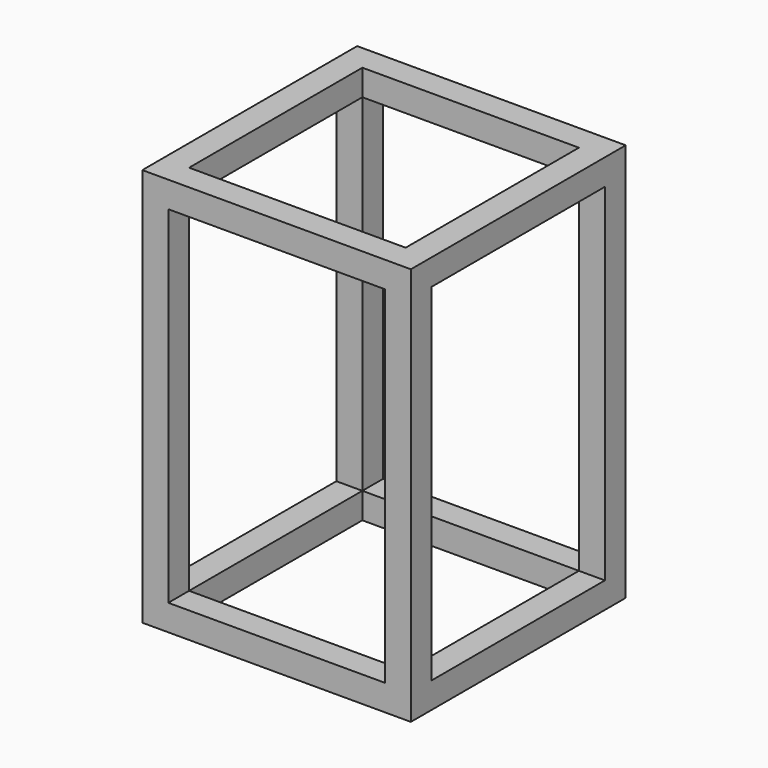
from build123d import *

# Parameters (mm, degrees)
F0_W     = 393.7
F0_H     = 393.7
F0_W_2   = 317.5
F0_H_2   = 317.5
F1_DEPTH = 38.1
F2_W     = 38.1
F2_H     = 38.1
F3_DEPTH = 508
F4_W     = 317.5
F4_H     = 317.5
F5_DEPTH = 38.1


with BuildPart() as f1:
    # F0 (on Top) → F1 (new body)
    with BuildSketch(Plane.XY):
        Rectangle(F0_W, F0_H)
        Rectangle(F0_W_2, F0_H_2, mode=Mode.SUBTRACT)
    extrude(amount=F1_DEPTH)

    # F2 (on face) → F3 (join)
    with BuildSketch(Plane(origin=(0, 0, 0), x_dir=(1, 0, 0), z_dir=(0, 0, -1))):
        with Locations((-177.8, 177.8)):
            Rectangle(F2_W, F2_H)
        with Locations((-177.8, -177.8)):
            Rectangle(F2_W, F2_H)
        with Locations((177.8, 177.8)):
            Rectangle(F2_W, F2_H)
        with Locations((177.8, -177.8)):
            Rectangle(F2_W, F2_H)
    extrude(amount=F3_DEPTH)

    # F4 (on face) → F5 (join)
    with BuildSketch(Plane(origin=(0, 0, -508), x_dir=(1, 0, 0), z_dir=(0, 0, -1))):
        Polygon((158.75, -196.85), (196.85, -196.85), (196.85, -158.75), (196.85, 158.75), (196.85, 196.85), (158.75, 196.85), (-158.75, 196.85), (-196.85, 196.85), (-196.85, 158.75), (-196.85, -158.75), (-196.85, -196.85), (-158.75, -196.85), align=None)
        Rectangle(F4_W, F4_H, mode=Mode.SUBTRACT)
    extrude(amount=F5_DEPTH)


solid = f1.part
